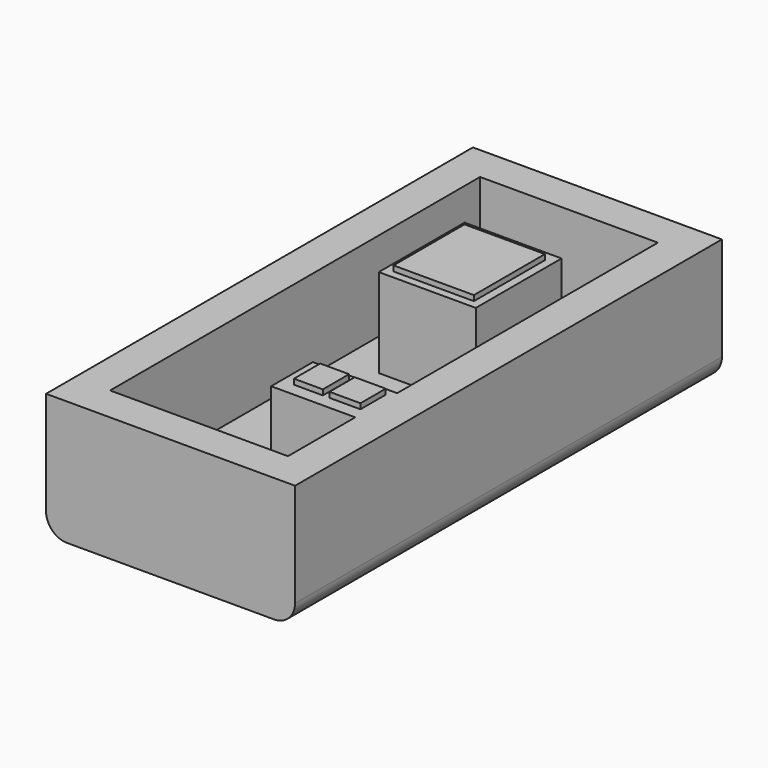
from build123d import *

# Parameters (mm, degrees)
F0_W     = 177.8
F0_H     = 88.9
F1_DEPTH = 381
F2_T     = -25.4
F3_W     = 69.2884027958
F3_H     = 76.5359997749
F3_W_2   = 60.1096697411
F3_H_2   = 37.3346805573
F4_DEPTH = 63.5
F5_W     = 57.4366301298
F5_H     = 63.3930116892
F5_W_2   = 22.1205726266
F5_H_2   = 22.5539207458
F5_W_3   = 20.6655599177
F5_H_3   = 23.4381556511
F6_DEPTH = 3.81
F7_R     = 15
F8_R     = 15


with BuildPart() as f1:
    # F0 (on Front) → F1 (new body)
    with BuildSketch(Plane.XZ):
        with Locations((1.1990362685, 0)):
            Rectangle(F0_W, F0_H)
        with Locations((1.1990362685, 0)):
            Rectangle(F0_W, F0_H)
    extrude(amount=F1_DEPTH)

    # F2
    f2_openings = [f1.faces().sort_by_distance(p)[0] for p in [
        (1.199036, -190.5, 44.45),
    ]]
    offset(amount=F2_T, openings=f2_openings)

    # F3 (on face) → F4 (join)
    with BuildSketch(Plane.XY.offset(-19.05)):
        with Locations((0, -112.0956093073)):
            Rectangle(F3_W, F3_H)
        with Locations((34.6442013979, -276.8346965313)):
            Rectangle(F3_W_2, F3_H_2)
    extrude(amount=F4_DEPTH)

    # F5 (on face) → F6 (join)
    with BuildSketch(Plane.XY.offset(44.45)):
        with Locations((0, -112.9631772637)):
            Rectangle(F5_W, F5_H)
        with Locations((49.8413220048, -274.8637795448)):
            Rectangle(F5_W_2, F5_H_2)
        with Locations((23.7438436598, -274.4216620922)):
            Rectangle(F5_W_3, F5_H_3)
    extrude(amount=F6_DEPTH)

    # F7
    f7_edges = [f1.edges().sort_by_distance(p)[0] for p in [
        (90.099036, -190.5, -44.45),
    ]]
    fillet(f7_edges, radius=F7_R)

    # F8
    f8_edges = [f1.edges().sort_by_distance(p)[0] for p in [
        (-87.700964, -190.5, -44.45),
    ]]
    fillet(f8_edges, radius=F8_R)


solid = f1.part
